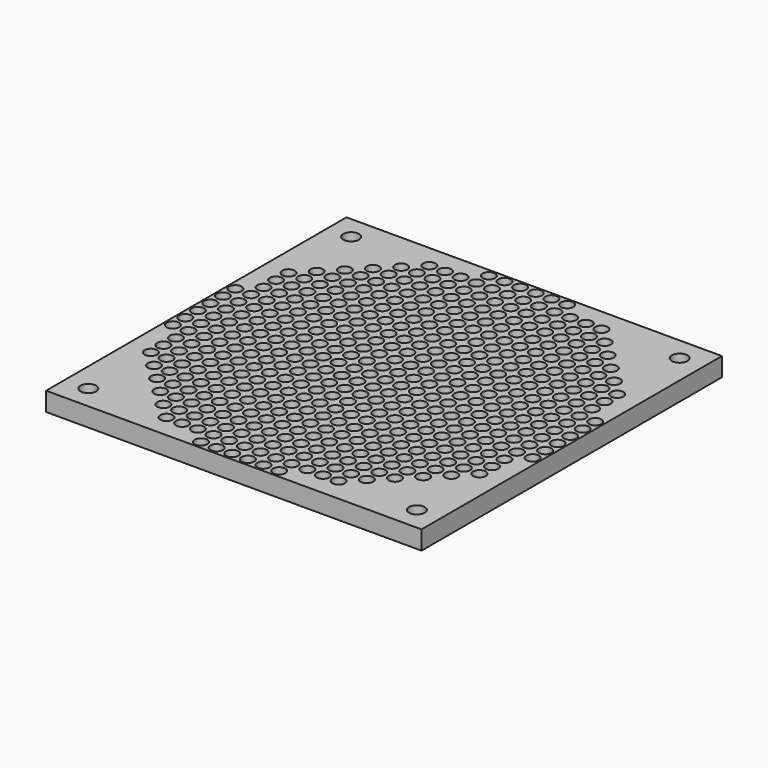
from build123d import *

# Parameters (mm, degrees)
F0_R     = 2.5
F0_R_2   = 2
F1_DEPTH = 6


with BuildPart() as f1:
    # F0 (on Top) → F1 (new body)
    with BuildSketch(Plane.XY):
        Polygon((0, 60), (-60, 60), (-60, 0), (-60, -60), (0, -60), (60, -60), (60, 0), (60, 60), align=None)
        with Locations((-52.5, -52.5)):
            Circle(F0_R, mode=Mode.SUBTRACT)
        with Locations((-32.5, -47.5)):
            Circle(F0_R_2, mode=Mode.SUBTRACT)
        with Locations((-47.5, -32.5)):
            Circle(F0_R_2, mode=Mode.SUBTRACT)
        with Locations((-37.5, -42.5)):
            Circle(F0_R_2, mode=Mode.SUBTRACT)
        with Locations((-32.5, -42.5)):
            Circle(F0_R_2, mode=Mode.SUBTRACT)
        with Locations((-42.5, -37.5)):
            Circle(F0_R_2, mode=Mode.SUBTRACT)
        with Locations((-42.5, -32.5)):
            Circle(F0_R_2, mode=Mode.SUBTRACT)
        with Locations((-37.5, -37.5)):
            Circle(F0_R_2, mode=Mode.SUBTRACT)
        with Locations((-32.5, -37.5)):
            Circle(F0_R_2, mode=Mode.SUBTRACT)
        with Locations((-37.5, -32.5)):
            Circle(F0_R_2, mode=Mode.SUBTRACT)
        with Locations((-32.5, -32.5)):
            Circle(F0_R_2, mode=Mode.SUBTRACT)
        with Locations((-27.5, -52.5)):
            Circle(F0_R_2, mode=Mode.SUBTRACT)
        with Locations((-27.5, -47.5)):
            Circle(F0_R_2, mode=Mode.SUBTRACT)
        with Locations((-22.5, -52.5)):
            Circle(F0_R_2, mode=Mode.SUBTRACT)
        with Locations((-17.5, -52.5)):
            Circle(F0_R_2, mode=Mode.SUBTRACT)
        with Locations((-22.5, -47.5)):
            Circle(F0_R_2, mode=Mode.SUBTRACT)
        with Locations((-17.5, -47.5)):
            Circle(F0_R_2, mode=Mode.SUBTRACT)
        with Locations((-12.5, -57.5)):
            Circle(F0_R_2, mode=Mode.SUBTRACT)
        with Locations((-7.5, -57.5)):
            Circle(F0_R_2, mode=Mode.SUBTRACT)
        with Locations((-2.5, -57.5)):
            Circle(F0_R_2, mode=Mode.SUBTRACT)
        with Locations((-12.5, -52.5)):
            Circle(F0_R_2, mode=Mode.SUBTRACT)
        with Locations((-12.5, -47.5)):
            Circle(F0_R_2, mode=Mode.SUBTRACT)
        with Locations((-7.5, -52.5)):
            Circle(F0_R_2, mode=Mode.SUBTRACT)
        with Locations((-2.5, -52.5)):
            Circle(F0_R_2, mode=Mode.SUBTRACT)
        with Locations((-7.5, -47.5)):
            Circle(F0_R_2, mode=Mode.SUBTRACT)
        with Locations((-2.5, -47.5)):
            Circle(F0_R_2, mode=Mode.SUBTRACT)
        with Locations((-27.5, -42.5)):
            Circle(F0_R_2, mode=Mode.SUBTRACT)
        with Locations((-22.5, -42.5)):
            Circle(F0_R_2, mode=Mode.SUBTRACT)
        with Locations((-17.5, -42.5)):
            Circle(F0_R_2, mode=Mode.SUBTRACT)
        with Locations((-27.5, -37.5)):
            Circle(F0_R_2, mode=Mode.SUBTRACT)
        with Locations((-27.5, -32.5)):
            Circle(F0_R_2, mode=Mode.SUBTRACT)
        with Locations((-22.5, -37.5)):
            Circle(F0_R_2, mode=Mode.SUBTRACT)
        with Locations((-17.5, -37.5)):
            Circle(F0_R_2, mode=Mode.SUBTRACT)
        with Locations((-22.5, -32.5)):
            Circle(F0_R_2, mode=Mode.SUBTRACT)
        with Locations((-17.5, -32.5)):
            Circle(F0_R_2, mode=Mode.SUBTRACT)
        with Locations((-12.5, -42.5)):
            Circle(F0_R_2, mode=Mode.SUBTRACT)
        with Locations((-7.5, -42.5)):
            Circle(F0_R_2, mode=Mode.SUBTRACT)
        with Locations((-2.5, -42.5)):
            Circle(F0_R_2, mode=Mode.SUBTRACT)
        with Locations((-12.5, -37.5)):
            Circle(F0_R_2, mode=Mode.SUBTRACT)
        with Locations((-12.5, -32.5)):
            Circle(F0_R_2, mode=Mode.SUBTRACT)
        with Locations((-7.5, -37.5)):
            Circle(F0_R_2, mode=Mode.SUBTRACT)
        with Locations((-2.5, -37.5)):
            Circle(F0_R_2, mode=Mode.SUBTRACT)
        with Locations((-7.5, -32.5)):
            Circle(F0_R_2, mode=Mode.SUBTRACT)
        with Locations((-2.5, -32.5)):
            Circle(F0_R_2, mode=Mode.SUBTRACT)
        with Locations((-52.5, -27.5)):
            Circle(F0_R_2, mode=Mode.SUBTRACT)
        with Locations((-47.5, -27.5)):
            Circle(F0_R_2, mode=Mode.SUBTRACT)
        with Locations((-52.5, -22.5)):
            Circle(F0_R_2, mode=Mode.SUBTRACT)
        with Locations((-47.5, -22.5)):
            Circle(F0_R_2, mode=Mode.SUBTRACT)
        with Locations((-52.5, -17.5)):
            Circle(F0_R_2, mode=Mode.SUBTRACT)
        with Locations((-47.5, -17.5)):
            Circle(F0_R_2, mode=Mode.SUBTRACT)
        with Locations((-42.5, -27.5)):
            Circle(F0_R_2, mode=Mode.SUBTRACT)
        with Locations((-37.5, -27.5)):
            Circle(F0_R_2, mode=Mode.SUBTRACT)
        with Locations((-32.5, -27.5)):
            Circle(F0_R_2, mode=Mode.SUBTRACT)
        with Locations((-42.5, -22.5)):
            Circle(F0_R_2, mode=Mode.SUBTRACT)
        with Locations((-42.5, -17.5)):
            Circle(F0_R_2, mode=Mode.SUBTRACT)
        with Locations((-37.5, -22.5)):
            Circle(F0_R_2, mode=Mode.SUBTRACT)
        with Locations((-32.5, -22.5)):
            Circle(F0_R_2, mode=Mode.SUBTRACT)
        with Locations((-37.5, -17.5)):
            Circle(F0_R_2, mode=Mode.SUBTRACT)
        with Locations((-32.5, -17.5)):
            Circle(F0_R_2, mode=Mode.SUBTRACT)
        with Locations((-57.5, -12.5)):
            Circle(F0_R_2, mode=Mode.SUBTRACT)
        with Locations((-52.5, -12.5)):
            Circle(F0_R_2, mode=Mode.SUBTRACT)
        with Locations((-47.5, -12.5)):
            Circle(F0_R_2, mode=Mode.SUBTRACT)
        with Locations((-57.5, -7.5)):
            Circle(F0_R_2, mode=Mode.SUBTRACT)
        with Locations((-57.5, -2.5)):
            Circle(F0_R_2, mode=Mode.SUBTRACT)
        with Locations((-52.5, -7.5)):
            Circle(F0_R_2, mode=Mode.SUBTRACT)
        with Locations((-47.5, -7.5)):
            Circle(F0_R_2, mode=Mode.SUBTRACT)
        with Locations((-52.5, -2.5)):
            Circle(F0_R_2, mode=Mode.SUBTRACT)
        with Locations((-47.5, -2.5)):
            Circle(F0_R_2, mode=Mode.SUBTRACT)
        with Locations((-42.5, -12.5)):
            Circle(F0_R_2, mode=Mode.SUBTRACT)
        with Locations((-37.5, -12.5)):
            Circle(F0_R_2, mode=Mode.SUBTRACT)
        with Locations((-32.5, -12.5)):
            Circle(F0_R_2, mode=Mode.SUBTRACT)
        with Locations((-42.5, -7.5)):
            Circle(F0_R_2, mode=Mode.SUBTRACT)
        with Locations((-42.5, -2.5)):
            Circle(F0_R_2, mode=Mode.SUBTRACT)
        with Locations((-37.5, -7.5)):
            Circle(F0_R_2, mode=Mode.SUBTRACT)
        with Locations((-32.5, -7.5)):
            Circle(F0_R_2, mode=Mode.SUBTRACT)
        with Locations((-37.5, -2.5)):
            Circle(F0_R_2, mode=Mode.SUBTRACT)
        with Locations((-32.5, -2.5)):
            Circle(F0_R_2, mode=Mode.SUBTRACT)
        with Locations((-27.5, -27.5)):
            Circle(F0_R_2, mode=Mode.SUBTRACT)
        with Locations((-22.5, -27.5)):
            Circle(F0_R_2, mode=Mode.SUBTRACT)
        with Locations((-17.5, -27.5)):
            Circle(F0_R_2, mode=Mode.SUBTRACT)
        with Locations((-27.5, -22.5)):
            Circle(F0_R_2, mode=Mode.SUBTRACT)
        with Locations((-27.5, -17.5)):
            Circle(F0_R_2, mode=Mode.SUBTRACT)
        with Locations((-22.5, -22.5)):
            Circle(F0_R_2, mode=Mode.SUBTRACT)
        with Locations((-17.5, -22.5)):
            Circle(F0_R_2, mode=Mode.SUBTRACT)
        with Locations((-22.5, -17.5)):
            Circle(F0_R_2, mode=Mode.SUBTRACT)
        with Locations((-17.5, -17.5)):
            Circle(F0_R_2, mode=Mode.SUBTRACT)
        with Locations((-12.5, -27.5)):
            Circle(F0_R_2, mode=Mode.SUBTRACT)
        with Locations((-7.5, -27.5)):
            Circle(F0_R_2, mode=Mode.SUBTRACT)
        with Locations((-2.5, -27.5)):
            Circle(F0_R_2, mode=Mode.SUBTRACT)
        with Locations((-12.5, -22.5)):
            Circle(F0_R_2, mode=Mode.SUBTRACT)
        with Locations((-12.5, -17.5)):
            Circle(F0_R_2, mode=Mode.SUBTRACT)
        with Locations((-7.5, -22.5)):
            Circle(F0_R_2, mode=Mode.SUBTRACT)
        with Locations((-2.5, -22.5)):
            Circle(F0_R_2, mode=Mode.SUBTRACT)
        with Locations((-7.5, -17.5)):
            Circle(F0_R_2, mode=Mode.SUBTRACT)
        with Locations((-2.5, -17.5)):
            Circle(F0_R_2, mode=Mode.SUBTRACT)
        with Locations((-27.5, -12.5)):
            Circle(F0_R_2, mode=Mode.SUBTRACT)
        with Locations((-22.5, -12.5)):
            Circle(F0_R_2, mode=Mode.SUBTRACT)
        with Locations((-17.5, -12.5)):
            Circle(F0_R_2, mode=Mode.SUBTRACT)
        with Locations((-27.5, -7.5)):
            Circle(F0_R_2, mode=Mode.SUBTRACT)
        with Locations((-27.5, -2.5)):
            Circle(F0_R_2, mode=Mode.SUBTRACT)
        with Locations((-22.5, -7.5)):
            Circle(F0_R_2, mode=Mode.SUBTRACT)
        with Locations((-17.5, -7.5)):
            Circle(F0_R_2, mode=Mode.SUBTRACT)
        with Locations((-22.5, -2.5)):
            Circle(F0_R_2, mode=Mode.SUBTRACT)
        with Locations((-17.5, -2.5)):
            Circle(F0_R_2, mode=Mode.SUBTRACT)
        with Locations((-12.5, -12.5)):
            Circle(F0_R_2, mode=Mode.SUBTRACT)
        with Locations((-7.5, -12.5)):
            Circle(F0_R_2, mode=Mode.SUBTRACT)
        with Locations((-2.5, -12.5)):
            Circle(F0_R_2, mode=Mode.SUBTRACT)
        with Locations((-12.5, -7.5)):
            Circle(F0_R_2, mode=Mode.SUBTRACT)
        with Locations((-12.5, -2.5)):
            Circle(F0_R_2, mode=Mode.SUBTRACT)
        with Locations((-7.5, -7.5)):
            Circle(F0_R_2, mode=Mode.SUBTRACT)
        with Locations((-2.5, -7.5)):
            Circle(F0_R_2, mode=Mode.SUBTRACT)
        with Locations((-7.5, -2.5)):
            Circle(F0_R_2, mode=Mode.SUBTRACT)
        with Locations((-2.5, -2.5)):
            Circle(F0_R_2, mode=Mode.SUBTRACT)
        with Locations((2.5, -57.5)):
            Circle(F0_R_2, mode=Mode.SUBTRACT)
        with Locations((7.5, -57.5)):
            Circle(F0_R_2, mode=Mode.SUBTRACT)
        with Locations((12.5, -57.5)):
            Circle(F0_R_2, mode=Mode.SUBTRACT)
        with Locations((2.5, -52.5)):
            Circle(F0_R_2, mode=Mode.SUBTRACT)
        with Locations((2.5, -47.5)):
            Circle(F0_R_2, mode=Mode.SUBTRACT)
        with Locations((7.5, -52.5)):
            Circle(F0_R_2, mode=Mode.SUBTRACT)
        with Locations((12.5, -52.5)):
            Circle(F0_R_2, mode=Mode.SUBTRACT)
        with Locations((7.5, -47.5)):
            Circle(F0_R_2, mode=Mode.SUBTRACT)
        with Locations((12.5, -47.5)):
            Circle(F0_R_2, mode=Mode.SUBTRACT)
        with Locations((17.5, -52.5)):
            Circle(F0_R_2, mode=Mode.SUBTRACT)
        with Locations((17.5, -47.5)):
            Circle(F0_R_2, mode=Mode.SUBTRACT)
        with Locations((22.5, -52.5)):
            Circle(F0_R_2, mode=Mode.SUBTRACT)
        with Locations((27.5, -52.5)):
            Circle(F0_R_2, mode=Mode.SUBTRACT)
        with Locations((22.5, -47.5)):
            Circle(F0_R_2, mode=Mode.SUBTRACT)
        with Locations((27.5, -47.5)):
            Circle(F0_R_2, mode=Mode.SUBTRACT)
        with Locations((2.5, -42.5)):
            Circle(F0_R_2, mode=Mode.SUBTRACT)
        with Locations((7.5, -42.5)):
            Circle(F0_R_2, mode=Mode.SUBTRACT)
        with Locations((12.5, -42.5)):
            Circle(F0_R_2, mode=Mode.SUBTRACT)
        with Locations((2.5, -37.5)):
            Circle(F0_R_2, mode=Mode.SUBTRACT)
        with Locations((2.5, -32.5)):
            Circle(F0_R_2, mode=Mode.SUBTRACT)
        with Locations((7.5, -37.5)):
            Circle(F0_R_2, mode=Mode.SUBTRACT)
        with Locations((12.5, -37.5)):
            Circle(F0_R_2, mode=Mode.SUBTRACT)
        with Locations((7.5, -32.5)):
            Circle(F0_R_2, mode=Mode.SUBTRACT)
        with Locations((12.5, -32.5)):
            Circle(F0_R_2, mode=Mode.SUBTRACT)
        with Locations((17.5, -42.5)):
            Circle(F0_R_2, mode=Mode.SUBTRACT)
        with Locations((22.5, -42.5)):
            Circle(F0_R_2, mode=Mode.SUBTRACT)
        with Locations((27.5, -42.5)):
            Circle(F0_R_2, mode=Mode.SUBTRACT)
        with Locations((17.5, -37.5)):
            Circle(F0_R_2, mode=Mode.SUBTRACT)
        with Locations((17.5, -32.5)):
            Circle(F0_R_2, mode=Mode.SUBTRACT)
        with Locations((22.5, -37.5)):
            Circle(F0_R_2, mode=Mode.SUBTRACT)
        with Locations((27.5, -37.5)):
            Circle(F0_R_2, mode=Mode.SUBTRACT)
        with Locations((22.5, -32.5)):
            Circle(F0_R_2, mode=Mode.SUBTRACT)
        with Locations((27.5, -32.5)):
            Circle(F0_R_2, mode=Mode.SUBTRACT)
        with Locations((32.5, -47.5)):
            Circle(F0_R_2, mode=Mode.SUBTRACT)
        with Locations((52.5, -52.5)):
            Circle(F0_R, mode=Mode.SUBTRACT)
        with Locations((32.5, -42.5)):
            Circle(F0_R_2, mode=Mode.SUBTRACT)
        with Locations((37.5, -42.5)):
            Circle(F0_R_2, mode=Mode.SUBTRACT)
        with Locations((32.5, -37.5)):
            Circle(F0_R_2, mode=Mode.SUBTRACT)
        with Locations((32.5, -32.5)):
            Circle(F0_R_2, mode=Mode.SUBTRACT)
        with Locations((37.5, -37.5)):
            Circle(F0_R_2, mode=Mode.SUBTRACT)
        with Locations((42.5, -37.5)):
            Circle(F0_R_2, mode=Mode.SUBTRACT)
        with Locations((37.5, -32.5)):
            Circle(F0_R_2, mode=Mode.SUBTRACT)
        with Locations((42.5, -32.5)):
            Circle(F0_R_2, mode=Mode.SUBTRACT)
        with Locations((47.5, -32.5)):
            Circle(F0_R_2, mode=Mode.SUBTRACT)
        with Locations((2.5, -27.5)):
            Circle(F0_R_2, mode=Mode.SUBTRACT)
        with Locations((7.5, -27.5)):
            Circle(F0_R_2, mode=Mode.SUBTRACT)
        with Locations((12.5, -27.5)):
            Circle(F0_R_2, mode=Mode.SUBTRACT)
        with Locations((2.5, -22.5)):
            Circle(F0_R_2, mode=Mode.SUBTRACT)
        with Locations((2.5, -17.5)):
            Circle(F0_R_2, mode=Mode.SUBTRACT)
        with Locations((7.5, -22.5)):
            Circle(F0_R_2, mode=Mode.SUBTRACT)
        with Locations((12.5, -22.5)):
            Circle(F0_R_2, mode=Mode.SUBTRACT)
        with Locations((7.5, -17.5)):
            Circle(F0_R_2, mode=Mode.SUBTRACT)
        with Locations((12.5, -17.5)):
            Circle(F0_R_2, mode=Mode.SUBTRACT)
        with Locations((17.5, -27.5)):
            Circle(F0_R_2, mode=Mode.SUBTRACT)
        with Locations((22.5, -27.5)):
            Circle(F0_R_2, mode=Mode.SUBTRACT)
        with Locations((27.5, -27.5)):
            Circle(F0_R_2, mode=Mode.SUBTRACT)
        with Locations((17.5, -22.5)):
            Circle(F0_R_2, mode=Mode.SUBTRACT)
        with Locations((17.5, -17.5)):
            Circle(F0_R_2, mode=Mode.SUBTRACT)
        with Locations((22.5, -22.5)):
            Circle(F0_R_2, mode=Mode.SUBTRACT)
        with Locations((27.5, -22.5)):
            Circle(F0_R_2, mode=Mode.SUBTRACT)
        with Locations((22.5, -17.5)):
            Circle(F0_R_2, mode=Mode.SUBTRACT)
        with Locations((27.5, -17.5)):
            Circle(F0_R_2, mode=Mode.SUBTRACT)
        with Locations((2.5, -12.5)):
            Circle(F0_R_2, mode=Mode.SUBTRACT)
        with Locations((7.5, -12.5)):
            Circle(F0_R_2, mode=Mode.SUBTRACT)
        with Locations((12.5, -12.5)):
            Circle(F0_R_2, mode=Mode.SUBTRACT)
        with Locations((2.5, -7.5)):
            Circle(F0_R_2, mode=Mode.SUBTRACT)
        with Locations((2.5, -2.5)):
            Circle(F0_R_2, mode=Mode.SUBTRACT)
        with Locations((7.5, -7.5)):
            Circle(F0_R_2, mode=Mode.SUBTRACT)
        with Locations((12.5, -7.5)):
            Circle(F0_R_2, mode=Mode.SUBTRACT)
        with Locations((7.5, -2.5)):
            Circle(F0_R_2, mode=Mode.SUBTRACT)
        with Locations((12.5, -2.5)):
            Circle(F0_R_2, mode=Mode.SUBTRACT)
        with Locations((17.5, -12.5)):
            Circle(F0_R_2, mode=Mode.SUBTRACT)
        with Locations((22.5, -12.5)):
            Circle(F0_R_2, mode=Mode.SUBTRACT)
        with Locations((27.5, -12.5)):
            Circle(F0_R_2, mode=Mode.SUBTRACT)
        with Locations((17.5, -7.5)):
            Circle(F0_R_2, mode=Mode.SUBTRACT)
        with Locations((17.5, -2.5)):
            Circle(F0_R_2, mode=Mode.SUBTRACT)
        with Locations((22.5, -7.5)):
            Circle(F0_R_2, mode=Mode.SUBTRACT)
        with Locations((27.5, -7.5)):
            Circle(F0_R_2, mode=Mode.SUBTRACT)
        with Locations((22.5, -2.5)):
            Circle(F0_R_2, mode=Mode.SUBTRACT)
        with Locations((27.5, -2.5)):
            Circle(F0_R_2, mode=Mode.SUBTRACT)
        with Locations((32.5, -27.5)):
            Circle(F0_R_2, mode=Mode.SUBTRACT)
        with Locations((37.5, -27.5)):
            Circle(F0_R_2, mode=Mode.SUBTRACT)
        with Locations((42.5, -27.5)):
            Circle(F0_R_2, mode=Mode.SUBTRACT)
        with Locations((32.5, -22.5)):
            Circle(F0_R_2, mode=Mode.SUBTRACT)
        with Locations((32.5, -17.5)):
            Circle(F0_R_2, mode=Mode.SUBTRACT)
        with Locations((37.5, -22.5)):
            Circle(F0_R_2, mode=Mode.SUBTRACT)
        with Locations((42.5, -22.5)):
            Circle(F0_R_2, mode=Mode.SUBTRACT)
        with Locations((37.5, -17.5)):
            Circle(F0_R_2, mode=Mode.SUBTRACT)
        with Locations((42.5, -17.5)):
            Circle(F0_R_2, mode=Mode.SUBTRACT)
        with Locations((47.5, -27.5)):
            Circle(F0_R_2, mode=Mode.SUBTRACT)
        with Locations((52.5, -27.5)):
            Circle(F0_R_2, mode=Mode.SUBTRACT)
        with Locations((47.5, -22.5)):
            Circle(F0_R_2, mode=Mode.SUBTRACT)
        with Locations((47.5, -17.5)):
            Circle(F0_R_2, mode=Mode.SUBTRACT)
        with Locations((52.5, -22.5)):
            Circle(F0_R_2, mode=Mode.SUBTRACT)
        with Locations((52.5, -17.5)):
            Circle(F0_R_2, mode=Mode.SUBTRACT)
        with Locations((32.5, -12.5)):
            Circle(F0_R_2, mode=Mode.SUBTRACT)
        with Locations((37.5, -12.5)):
            Circle(F0_R_2, mode=Mode.SUBTRACT)
        with Locations((42.5, -12.5)):
            Circle(F0_R_2, mode=Mode.SUBTRACT)
        with Locations((32.5, -7.5)):
            Circle(F0_R_2, mode=Mode.SUBTRACT)
        with Locations((32.5, -2.5)):
            Circle(F0_R_2, mode=Mode.SUBTRACT)
        with Locations((37.5, -7.5)):
            Circle(F0_R_2, mode=Mode.SUBTRACT)
        with Locations((42.5, -7.5)):
            Circle(F0_R_2, mode=Mode.SUBTRACT)
        with Locations((37.5, -2.5)):
            Circle(F0_R_2, mode=Mode.SUBTRACT)
        with Locations((42.5, -2.5)):
            Circle(F0_R_2, mode=Mode.SUBTRACT)
        with Locations((47.5, -12.5)):
            Circle(F0_R_2, mode=Mode.SUBTRACT)
        with Locations((52.5, -12.5)):
            Circle(F0_R_2, mode=Mode.SUBTRACT)
        with Locations((57.5, -12.5)):
            Circle(F0_R_2, mode=Mode.SUBTRACT)
        with Locations((47.5, -7.5)):
            Circle(F0_R_2, mode=Mode.SUBTRACT)
        with Locations((47.5, -2.5)):
            Circle(F0_R_2, mode=Mode.SUBTRACT)
        with Locations((52.5, -7.5)):
            Circle(F0_R_2, mode=Mode.SUBTRACT)
        with Locations((57.5, -7.5)):
            Circle(F0_R_2, mode=Mode.SUBTRACT)
        with Locations((52.5, -2.5)):
            Circle(F0_R_2, mode=Mode.SUBTRACT)
        with Locations((57.5, -2.5)):
            Circle(F0_R_2, mode=Mode.SUBTRACT)
        with Locations((-57.5, 2.5)):
            Circle(F0_R_2, mode=Mode.SUBTRACT)
        with Locations((-52.5, 2.5)):
            Circle(F0_R_2, mode=Mode.SUBTRACT)
        with Locations((-47.5, 2.5)):
            Circle(F0_R_2, mode=Mode.SUBTRACT)
        with Locations((-57.5, 7.5)):
            Circle(F0_R_2, mode=Mode.SUBTRACT)
        with Locations((-57.5, 12.5)):
            Circle(F0_R_2, mode=Mode.SUBTRACT)
        with Locations((-52.5, 7.5)):
            Circle(F0_R_2, mode=Mode.SUBTRACT)
        with Locations((-47.5, 7.5)):
            Circle(F0_R_2, mode=Mode.SUBTRACT)
        with Locations((-52.5, 12.5)):
            Circle(F0_R_2, mode=Mode.SUBTRACT)
        with Locations((-47.5, 12.5)):
            Circle(F0_R_2, mode=Mode.SUBTRACT)
        with Locations((-42.5, 2.5)):
            Circle(F0_R_2, mode=Mode.SUBTRACT)
        with Locations((-37.5, 2.5)):
            Circle(F0_R_2, mode=Mode.SUBTRACT)
        with Locations((-32.5, 2.5)):
            Circle(F0_R_2, mode=Mode.SUBTRACT)
        with Locations((-42.5, 7.5)):
            Circle(F0_R_2, mode=Mode.SUBTRACT)
        with Locations((-42.5, 12.5)):
            Circle(F0_R_2, mode=Mode.SUBTRACT)
        with Locations((-37.5, 7.5)):
            Circle(F0_R_2, mode=Mode.SUBTRACT)
        with Locations((-32.5, 7.5)):
            Circle(F0_R_2, mode=Mode.SUBTRACT)
        with Locations((-37.5, 12.5)):
            Circle(F0_R_2, mode=Mode.SUBTRACT)
        with Locations((-32.5, 12.5)):
            Circle(F0_R_2, mode=Mode.SUBTRACT)
        with Locations((-52.5, 17.5)):
            Circle(F0_R_2, mode=Mode.SUBTRACT)
        with Locations((-47.5, 17.5)):
            Circle(F0_R_2, mode=Mode.SUBTRACT)
        with Locations((-52.5, 22.5)):
            Circle(F0_R_2, mode=Mode.SUBTRACT)
        with Locations((-47.5, 22.5)):
            Circle(F0_R_2, mode=Mode.SUBTRACT)
        with Locations((-52.5, 27.5)):
            Circle(F0_R_2, mode=Mode.SUBTRACT)
        with Locations((-47.5, 27.5)):
            Circle(F0_R_2, mode=Mode.SUBTRACT)
        with Locations((-42.5, 17.5)):
            Circle(F0_R_2, mode=Mode.SUBTRACT)
        with Locations((-37.5, 17.5)):
            Circle(F0_R_2, mode=Mode.SUBTRACT)
        with Locations((-32.5, 17.5)):
            Circle(F0_R_2, mode=Mode.SUBTRACT)
        with Locations((-42.5, 22.5)):
            Circle(F0_R_2, mode=Mode.SUBTRACT)
        with Locations((-42.5, 27.5)):
            Circle(F0_R_2, mode=Mode.SUBTRACT)
        with Locations((-37.5, 22.5)):
            Circle(F0_R_2, mode=Mode.SUBTRACT)
        with Locations((-32.5, 22.5)):
            Circle(F0_R_2, mode=Mode.SUBTRACT)
        with Locations((-37.5, 27.5)):
            Circle(F0_R_2, mode=Mode.SUBTRACT)
        with Locations((-32.5, 27.5)):
            Circle(F0_R_2, mode=Mode.SUBTRACT)
        with Locations((-27.5, 2.5)):
            Circle(F0_R_2, mode=Mode.SUBTRACT)
        with Locations((-22.5, 2.5)):
            Circle(F0_R_2, mode=Mode.SUBTRACT)
        with Locations((-17.5, 2.5)):
            Circle(F0_R_2, mode=Mode.SUBTRACT)
        with Locations((-27.5, 7.5)):
            Circle(F0_R_2, mode=Mode.SUBTRACT)
        with Locations((-27.5, 12.5)):
            Circle(F0_R_2, mode=Mode.SUBTRACT)
        with Locations((-22.5, 7.5)):
            Circle(F0_R_2, mode=Mode.SUBTRACT)
        with Locations((-17.5, 7.5)):
            Circle(F0_R_2, mode=Mode.SUBTRACT)
        with Locations((-22.5, 12.5)):
            Circle(F0_R_2, mode=Mode.SUBTRACT)
        with Locations((-17.5, 12.5)):
            Circle(F0_R_2, mode=Mode.SUBTRACT)
        with Locations((-12.5, 2.5)):
            Circle(F0_R_2, mode=Mode.SUBTRACT)
        with Locations((-7.5, 2.5)):
            Circle(F0_R_2, mode=Mode.SUBTRACT)
        with Locations((-2.5, 2.5)):
            Circle(F0_R_2, mode=Mode.SUBTRACT)
        with Locations((-12.5, 7.5)):
            Circle(F0_R_2, mode=Mode.SUBTRACT)
        with Locations((-12.5, 12.5)):
            Circle(F0_R_2, mode=Mode.SUBTRACT)
        with Locations((-7.5, 7.5)):
            Circle(F0_R_2, mode=Mode.SUBTRACT)
        with Locations((-2.5, 7.5)):
            Circle(F0_R_2, mode=Mode.SUBTRACT)
        with Locations((-7.5, 12.5)):
            Circle(F0_R_2, mode=Mode.SUBTRACT)
        with Locations((-2.5, 12.5)):
            Circle(F0_R_2, mode=Mode.SUBTRACT)
        with Locations((-27.5, 17.5)):
            Circle(F0_R_2, mode=Mode.SUBTRACT)
        with Locations((-22.5, 17.5)):
            Circle(F0_R_2, mode=Mode.SUBTRACT)
        with Locations((-17.5, 17.5)):
            Circle(F0_R_2, mode=Mode.SUBTRACT)
        with Locations((-27.5, 22.5)):
            Circle(F0_R_2, mode=Mode.SUBTRACT)
        with Locations((-27.5, 27.5)):
            Circle(F0_R_2, mode=Mode.SUBTRACT)
        with Locations((-22.5, 22.5)):
            Circle(F0_R_2, mode=Mode.SUBTRACT)
        with Locations((-17.5, 22.5)):
            Circle(F0_R_2, mode=Mode.SUBTRACT)
        with Locations((-22.5, 27.5)):
            Circle(F0_R_2, mode=Mode.SUBTRACT)
        with Locations((-17.5, 27.5)):
            Circle(F0_R_2, mode=Mode.SUBTRACT)
        with Locations((-12.5, 17.5)):
            Circle(F0_R_2, mode=Mode.SUBTRACT)
        with Locations((-7.5, 17.5)):
            Circle(F0_R_2, mode=Mode.SUBTRACT)
        with Locations((-2.5, 17.5)):
            Circle(F0_R_2, mode=Mode.SUBTRACT)
        with Locations((-12.5, 22.5)):
            Circle(F0_R_2, mode=Mode.SUBTRACT)
        with Locations((-12.5, 27.5)):
            Circle(F0_R_2, mode=Mode.SUBTRACT)
        with Locations((-7.5, 22.5)):
            Circle(F0_R_2, mode=Mode.SUBTRACT)
        with Locations((-2.5, 22.5)):
            Circle(F0_R_2, mode=Mode.SUBTRACT)
        with Locations((-7.5, 27.5)):
            Circle(F0_R_2, mode=Mode.SUBTRACT)
        with Locations((-2.5, 27.5)):
            Circle(F0_R_2, mode=Mode.SUBTRACT)
        with Locations((-47.5, 32.5)):
            Circle(F0_R_2, mode=Mode.SUBTRACT)
        with Locations((-42.5, 32.5)):
            Circle(F0_R_2, mode=Mode.SUBTRACT)
        with Locations((-37.5, 32.5)):
            Circle(F0_R_2, mode=Mode.SUBTRACT)
        with Locations((-32.5, 32.5)):
            Circle(F0_R_2, mode=Mode.SUBTRACT)
        with Locations((-42.5, 37.5)):
            Circle(F0_R_2, mode=Mode.SUBTRACT)
        with Locations((-37.5, 37.5)):
            Circle(F0_R_2, mode=Mode.SUBTRACT)
        with Locations((-32.5, 37.5)):
            Circle(F0_R_2, mode=Mode.SUBTRACT)
        with Locations((-37.5, 42.5)):
            Circle(F0_R_2, mode=Mode.SUBTRACT)
        with Locations((-32.5, 42.5)):
            Circle(F0_R_2, mode=Mode.SUBTRACT)
        with Locations((-52.5, 52.5)):
            Circle(F0_R, mode=Mode.SUBTRACT)
        with Locations((-32.5, 47.5)):
            Circle(F0_R_2, mode=Mode.SUBTRACT)
        with Locations((-27.5, 32.5)):
            Circle(F0_R_2, mode=Mode.SUBTRACT)
        with Locations((-22.5, 32.5)):
            Circle(F0_R_2, mode=Mode.SUBTRACT)
        with Locations((-17.5, 32.5)):
            Circle(F0_R_2, mode=Mode.SUBTRACT)
        with Locations((-27.5, 37.5)):
            Circle(F0_R_2, mode=Mode.SUBTRACT)
        with Locations((-27.5, 42.5)):
            Circle(F0_R_2, mode=Mode.SUBTRACT)
        with Locations((-22.5, 37.5)):
            Circle(F0_R_2, mode=Mode.SUBTRACT)
        with Locations((-17.5, 37.5)):
            Circle(F0_R_2, mode=Mode.SUBTRACT)
        with Locations((-22.5, 42.5)):
            Circle(F0_R_2, mode=Mode.SUBTRACT)
        with Locations((-17.5, 42.5)):
            Circle(F0_R_2, mode=Mode.SUBTRACT)
        with Locations((-12.5, 32.5)):
            Circle(F0_R_2, mode=Mode.SUBTRACT)
        with Locations((-7.5, 32.5)):
            Circle(F0_R_2, mode=Mode.SUBTRACT)
        with Locations((-2.5, 32.5)):
            Circle(F0_R_2, mode=Mode.SUBTRACT)
        with Locations((-12.5, 37.5)):
            Circle(F0_R_2, mode=Mode.SUBTRACT)
        with Locations((-12.5, 42.5)):
            Circle(F0_R_2, mode=Mode.SUBTRACT)
        with Locations((-7.5, 37.5)):
            Circle(F0_R_2, mode=Mode.SUBTRACT)
        with Locations((-2.5, 37.5)):
            Circle(F0_R_2, mode=Mode.SUBTRACT)
        with Locations((-7.5, 42.5)):
            Circle(F0_R_2, mode=Mode.SUBTRACT)
        with Locations((-2.5, 42.5)):
            Circle(F0_R_2, mode=Mode.SUBTRACT)
        with Locations((-27.5, 47.5)):
            Circle(F0_R_2, mode=Mode.SUBTRACT)
        with Locations((-22.5, 47.5)):
            Circle(F0_R_2, mode=Mode.SUBTRACT)
        with Locations((-17.5, 47.5)):
            Circle(F0_R_2, mode=Mode.SUBTRACT)
        with Locations((-27.5, 52.5)):
            Circle(F0_R_2, mode=Mode.SUBTRACT)
        with Locations((-22.5, 52.5)):
            Circle(F0_R_2, mode=Mode.SUBTRACT)
        with Locations((-17.5, 52.5)):
            Circle(F0_R_2, mode=Mode.SUBTRACT)
        with Locations((-12.5, 47.5)):
            Circle(F0_R_2, mode=Mode.SUBTRACT)
        with Locations((-7.5, 47.5)):
            Circle(F0_R_2, mode=Mode.SUBTRACT)
        with Locations((-2.5, 47.5)):
            Circle(F0_R_2, mode=Mode.SUBTRACT)
        with Locations((-12.5, 52.5)):
            Circle(F0_R_2, mode=Mode.SUBTRACT)
        with Locations((-12.5, 57.5)):
            Circle(F0_R_2, mode=Mode.SUBTRACT)
        with Locations((-7.5, 52.5)):
            Circle(F0_R_2, mode=Mode.SUBTRACT)
        with Locations((-2.5, 52.5)):
            Circle(F0_R_2, mode=Mode.SUBTRACT)
        with Locations((-7.5, 57.5)):
            Circle(F0_R_2, mode=Mode.SUBTRACT)
        with Locations((-2.5, 57.5)):
            Circle(F0_R_2, mode=Mode.SUBTRACT)
        with Locations((2.5, 2.5)):
            Circle(F0_R_2, mode=Mode.SUBTRACT)
        with Locations((7.5, 2.5)):
            Circle(F0_R_2, mode=Mode.SUBTRACT)
        with Locations((12.5, 2.5)):
            Circle(F0_R_2, mode=Mode.SUBTRACT)
        with Locations((2.5, 7.5)):
            Circle(F0_R_2, mode=Mode.SUBTRACT)
        with Locations((2.5, 12.5)):
            Circle(F0_R_2, mode=Mode.SUBTRACT)
        with Locations((7.5, 7.5)):
            Circle(F0_R_2, mode=Mode.SUBTRACT)
        with Locations((12.5, 7.5)):
            Circle(F0_R_2, mode=Mode.SUBTRACT)
        with Locations((7.5, 12.5)):
            Circle(F0_R_2, mode=Mode.SUBTRACT)
        with Locations((12.5, 12.5)):
            Circle(F0_R_2, mode=Mode.SUBTRACT)
        with Locations((17.5, 2.5)):
            Circle(F0_R_2, mode=Mode.SUBTRACT)
        with Locations((22.5, 2.5)):
            Circle(F0_R_2, mode=Mode.SUBTRACT)
        with Locations((27.5, 2.5)):
            Circle(F0_R_2, mode=Mode.SUBTRACT)
        with Locations((17.5, 7.5)):
            Circle(F0_R_2, mode=Mode.SUBTRACT)
        with Locations((17.5, 12.5)):
            Circle(F0_R_2, mode=Mode.SUBTRACT)
        with Locations((22.5, 7.5)):
            Circle(F0_R_2, mode=Mode.SUBTRACT)
        with Locations((27.5, 7.5)):
            Circle(F0_R_2, mode=Mode.SUBTRACT)
        with Locations((22.5, 12.5)):
            Circle(F0_R_2, mode=Mode.SUBTRACT)
        with Locations((27.5, 12.5)):
            Circle(F0_R_2, mode=Mode.SUBTRACT)
        with Locations((2.5, 17.5)):
            Circle(F0_R_2, mode=Mode.SUBTRACT)
        with Locations((7.5, 17.5)):
            Circle(F0_R_2, mode=Mode.SUBTRACT)
        with Locations((12.5, 17.5)):
            Circle(F0_R_2, mode=Mode.SUBTRACT)
        with Locations((2.5, 22.5)):
            Circle(F0_R_2, mode=Mode.SUBTRACT)
        with Locations((2.5, 27.5)):
            Circle(F0_R_2, mode=Mode.SUBTRACT)
        with Locations((7.5, 22.5)):
            Circle(F0_R_2, mode=Mode.SUBTRACT)
        with Locations((12.5, 22.5)):
            Circle(F0_R_2, mode=Mode.SUBTRACT)
        with Locations((7.5, 27.5)):
            Circle(F0_R_2, mode=Mode.SUBTRACT)
        with Locations((12.5, 27.5)):
            Circle(F0_R_2, mode=Mode.SUBTRACT)
        with Locations((17.5, 17.5)):
            Circle(F0_R_2, mode=Mode.SUBTRACT)
        with Locations((22.5, 17.5)):
            Circle(F0_R_2, mode=Mode.SUBTRACT)
        with Locations((27.5, 17.5)):
            Circle(F0_R_2, mode=Mode.SUBTRACT)
        with Locations((17.5, 22.5)):
            Circle(F0_R_2, mode=Mode.SUBTRACT)
        with Locations((17.5, 27.5)):
            Circle(F0_R_2, mode=Mode.SUBTRACT)
        with Locations((22.5, 22.5)):
            Circle(F0_R_2, mode=Mode.SUBTRACT)
        with Locations((27.5, 22.5)):
            Circle(F0_R_2, mode=Mode.SUBTRACT)
        with Locations((22.5, 27.5)):
            Circle(F0_R_2, mode=Mode.SUBTRACT)
        with Locations((27.5, 27.5)):
            Circle(F0_R_2, mode=Mode.SUBTRACT)
        with Locations((32.5, 2.5)):
            Circle(F0_R_2, mode=Mode.SUBTRACT)
        with Locations((37.5, 2.5)):
            Circle(F0_R_2, mode=Mode.SUBTRACT)
        with Locations((42.5, 2.5)):
            Circle(F0_R_2, mode=Mode.SUBTRACT)
        with Locations((32.5, 7.5)):
            Circle(F0_R_2, mode=Mode.SUBTRACT)
        with Locations((32.5, 12.5)):
            Circle(F0_R_2, mode=Mode.SUBTRACT)
        with Locations((37.5, 7.5)):
            Circle(F0_R_2, mode=Mode.SUBTRACT)
        with Locations((42.5, 7.5)):
            Circle(F0_R_2, mode=Mode.SUBTRACT)
        with Locations((37.5, 12.5)):
            Circle(F0_R_2, mode=Mode.SUBTRACT)
        with Locations((42.5, 12.5)):
            Circle(F0_R_2, mode=Mode.SUBTRACT)
        with Locations((47.5, 2.5)):
            Circle(F0_R_2, mode=Mode.SUBTRACT)
        with Locations((52.5, 2.5)):
            Circle(F0_R_2, mode=Mode.SUBTRACT)
        with Locations((57.5, 2.5)):
            Circle(F0_R_2, mode=Mode.SUBTRACT)
        with Locations((47.5, 7.5)):
            Circle(F0_R_2, mode=Mode.SUBTRACT)
        with Locations((47.5, 12.5)):
            Circle(F0_R_2, mode=Mode.SUBTRACT)
        with Locations((52.5, 7.5)):
            Circle(F0_R_2, mode=Mode.SUBTRACT)
        with Locations((57.5, 7.5)):
            Circle(F0_R_2, mode=Mode.SUBTRACT)
        with Locations((52.5, 12.5)):
            Circle(F0_R_2, mode=Mode.SUBTRACT)
        with Locations((57.5, 12.5)):
            Circle(F0_R_2, mode=Mode.SUBTRACT)
        with Locations((32.5, 17.5)):
            Circle(F0_R_2, mode=Mode.SUBTRACT)
        with Locations((37.5, 17.5)):
            Circle(F0_R_2, mode=Mode.SUBTRACT)
        with Locations((42.5, 17.5)):
            Circle(F0_R_2, mode=Mode.SUBTRACT)
        with Locations((32.5, 22.5)):
            Circle(F0_R_2, mode=Mode.SUBTRACT)
        with Locations((32.5, 27.5)):
            Circle(F0_R_2, mode=Mode.SUBTRACT)
        with Locations((37.5, 22.5)):
            Circle(F0_R_2, mode=Mode.SUBTRACT)
        with Locations((42.5, 22.5)):
            Circle(F0_R_2, mode=Mode.SUBTRACT)
        with Locations((37.5, 27.5)):
            Circle(F0_R_2, mode=Mode.SUBTRACT)
        with Locations((42.5, 27.5)):
            Circle(F0_R_2, mode=Mode.SUBTRACT)
        with Locations((47.5, 17.5)):
            Circle(F0_R_2, mode=Mode.SUBTRACT)
        with Locations((52.5, 17.5)):
            Circle(F0_R_2, mode=Mode.SUBTRACT)
        with Locations((47.5, 22.5)):
            Circle(F0_R_2, mode=Mode.SUBTRACT)
        with Locations((47.5, 27.5)):
            Circle(F0_R_2, mode=Mode.SUBTRACT)
        with Locations((52.5, 22.5)):
            Circle(F0_R_2, mode=Mode.SUBTRACT)
        with Locations((52.5, 27.5)):
            Circle(F0_R_2, mode=Mode.SUBTRACT)
        with Locations((2.5, 32.5)):
            Circle(F0_R_2, mode=Mode.SUBTRACT)
        with Locations((7.5, 32.5)):
            Circle(F0_R_2, mode=Mode.SUBTRACT)
        with Locations((12.5, 32.5)):
            Circle(F0_R_2, mode=Mode.SUBTRACT)
        with Locations((2.5, 37.5)):
            Circle(F0_R_2, mode=Mode.SUBTRACT)
        with Locations((2.5, 42.5)):
            Circle(F0_R_2, mode=Mode.SUBTRACT)
        with Locations((7.5, 37.5)):
            Circle(F0_R_2, mode=Mode.SUBTRACT)
        with Locations((12.5, 37.5)):
            Circle(F0_R_2, mode=Mode.SUBTRACT)
        with Locations((7.5, 42.5)):
            Circle(F0_R_2, mode=Mode.SUBTRACT)
        with Locations((12.5, 42.5)):
            Circle(F0_R_2, mode=Mode.SUBTRACT)
        with Locations((17.5, 32.5)):
            Circle(F0_R_2, mode=Mode.SUBTRACT)
        with Locations((22.5, 32.5)):
            Circle(F0_R_2, mode=Mode.SUBTRACT)
        with Locations((27.5, 32.5)):
            Circle(F0_R_2, mode=Mode.SUBTRACT)
        with Locations((17.5, 37.5)):
            Circle(F0_R_2, mode=Mode.SUBTRACT)
        with Locations((17.5, 42.5)):
            Circle(F0_R_2, mode=Mode.SUBTRACT)
        with Locations((22.5, 37.5)):
            Circle(F0_R_2, mode=Mode.SUBTRACT)
        with Locations((27.5, 37.5)):
            Circle(F0_R_2, mode=Mode.SUBTRACT)
        with Locations((22.5, 42.5)):
            Circle(F0_R_2, mode=Mode.SUBTRACT)
        with Locations((27.5, 42.5)):
            Circle(F0_R_2, mode=Mode.SUBTRACT)
        with Locations((2.5, 47.5)):
            Circle(F0_R_2, mode=Mode.SUBTRACT)
        with Locations((7.5, 47.5)):
            Circle(F0_R_2, mode=Mode.SUBTRACT)
        with Locations((12.5, 47.5)):
            Circle(F0_R_2, mode=Mode.SUBTRACT)
        with Locations((2.5, 52.5)):
            Circle(F0_R_2, mode=Mode.SUBTRACT)
        with Locations((2.5, 57.5)):
            Circle(F0_R_2, mode=Mode.SUBTRACT)
        with Locations((7.5, 52.5)):
            Circle(F0_R_2, mode=Mode.SUBTRACT)
        with Locations((12.5, 52.5)):
            Circle(F0_R_2, mode=Mode.SUBTRACT)
        with Locations((7.5, 57.5)):
            Circle(F0_R_2, mode=Mode.SUBTRACT)
        with Locations((12.5, 57.5)):
            Circle(F0_R_2, mode=Mode.SUBTRACT)
        with Locations((17.5, 47.5)):
            Circle(F0_R_2, mode=Mode.SUBTRACT)
        with Locations((22.5, 47.5)):
            Circle(F0_R_2, mode=Mode.SUBTRACT)
        with Locations((27.5, 47.5)):
            Circle(F0_R_2, mode=Mode.SUBTRACT)
        with Locations((17.5, 52.5)):
            Circle(F0_R_2, mode=Mode.SUBTRACT)
        with Locations((22.5, 52.5)):
            Circle(F0_R_2, mode=Mode.SUBTRACT)
        with Locations((27.5, 52.5)):
            Circle(F0_R_2, mode=Mode.SUBTRACT)
        with Locations((32.5, 32.5)):
            Circle(F0_R_2, mode=Mode.SUBTRACT)
        with Locations((37.5, 32.5)):
            Circle(F0_R_2, mode=Mode.SUBTRACT)
        with Locations((42.5, 32.5)):
            Circle(F0_R_2, mode=Mode.SUBTRACT)
        with Locations((32.5, 37.5)):
            Circle(F0_R_2, mode=Mode.SUBTRACT)
        with Locations((32.5, 42.5)):
            Circle(F0_R_2, mode=Mode.SUBTRACT)
        with Locations((37.5, 37.5)):
            Circle(F0_R_2, mode=Mode.SUBTRACT)
        with Locations((42.5, 37.5)):
            Circle(F0_R_2, mode=Mode.SUBTRACT)
        with Locations((37.5, 42.5)):
            Circle(F0_R_2, mode=Mode.SUBTRACT)
        with Locations((47.5, 32.5)):
            Circle(F0_R_2, mode=Mode.SUBTRACT)
        with Locations((32.5, 47.5)):
            Circle(F0_R_2, mode=Mode.SUBTRACT)
        with Locations((52.5, 52.5)):
            Circle(F0_R, mode=Mode.SUBTRACT)
    extrude(amount=F1_DEPTH)


solid = f1.part
